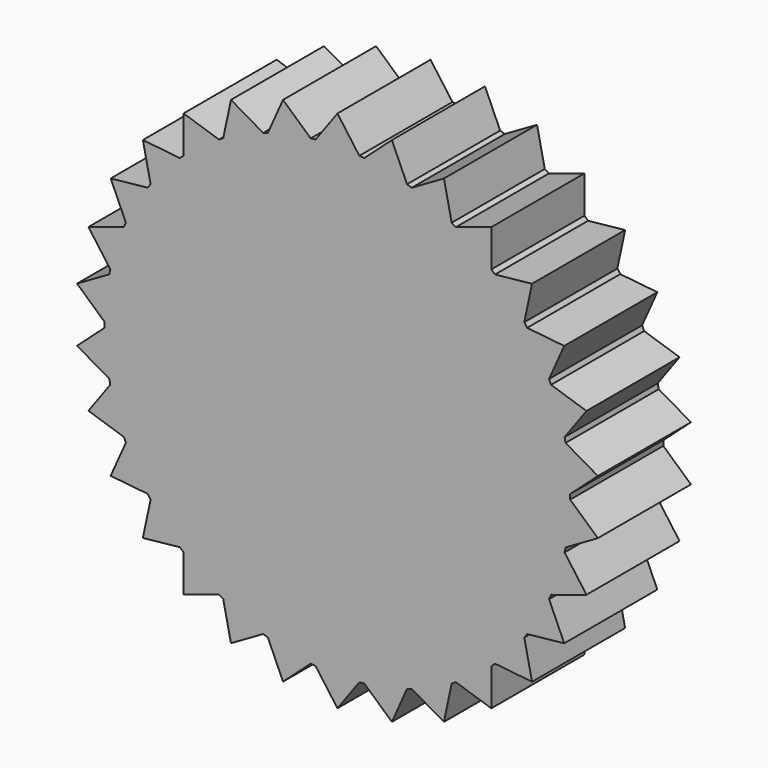
from build123d import *

# Parameters (mm, degrees)
F1_DEPTH = 12.7


with BuildPart() as f1:
    # F0 (on Front) → F1 (new body)
    with BuildSketch(Plane.XZ):
        with BuildLine():
            ThreePointArc((25.398581, -0.268477), (25.399645, -0.134241), (25.4, 0))
            ThreePointArc((25.4, 0), (25.399645, 0.134241), (25.398581, 0.268477))
            ThreePointArc((25.398581, 0.268477), (25.260856, 2.655023), (24.899381, 5.018052))
            ThreePointArc((24.899381, 5.018052), (24.844949, 5.280957), (24.787742, 5.543272))
            ThreePointArc((24.787742, 5.543272), (24.156836, 7.849032), (23.311958, 10.085267))
            ThreePointArc((23.311958, 10.085267), (23.204055, 10.331111), (23.093559, 10.5758))
            ThreePointArc((23.093559, 10.5758), (21.997045, 12.7), (20.705691, 14.711709))
            ThreePointArc((20.705691, 14.711709), (20.549032, 14.929745), (20.390077, 15.146114))
            ThreePointArc((20.390077, 15.146114), (18.875879, 16.995917), (17.194485, 18.695178))
            ThreePointArc((17.194485, 18.695178), (16.995917, 18.875879), (16.79545, 19.05447))
            ThreePointArc((16.79545, 19.05447), (14.929745, 20.549032), (12.931799, 21.861578))
            ThreePointArc((12.931799, 21.861578), (12.7, 21.997045), (12.466782, 22.130055))
            ThreePointArc((12.466782, 22.130055), (10.331111, 23.204055), (8.10393, 24.072522))
            ThreePointArc((8.10393, 24.072522), (7.849032, 24.156836), (7.593256, 24.23845))
            ThreePointArc((7.593256, 24.23845), (5.280957, 24.844949), (2.921881, 25.231381))
            ThreePointArc((2.921881, 25.231381), (2.655023, 25.260856), (2.387868, 25.287508))
            ThreePointArc((2.387868, 25.287508), (1.195258, 25.371862), (0, 25.4))
            ThreePointArc((0, 25.4), (-1.195258, 25.371862), (-2.387868, 25.287508))
            ThreePointArc((-2.387868, 25.287508), (-2.655023, 25.260856), (-2.921881, 25.231381))
            ThreePointArc((-2.921881, 25.231381), (-5.280957, 24.844949), (-7.593256, 24.23845))
            ThreePointArc((-7.593256, 24.23845), (-7.849032, 24.156836), (-8.10393, 24.072522))
            ThreePointArc((-8.10393, 24.072522), (-10.331111, 23.204055), (-12.466782, 22.130055))
            ThreePointArc((-12.466782, 22.130055), (-12.7, 21.997045), (-12.931799, 21.861578))
            ThreePointArc((-12.931799, 21.861578), (-14.929745, 20.549032), (-16.79545, 19.05447))
            ThreePointArc((-16.79545, 19.05447), (-16.995917, 18.875879), (-17.194485, 18.695178))
            ThreePointArc((-17.194485, 18.695178), (-18.875879, 16.995917), (-20.390077, 15.146114))
            ThreePointArc((-20.390077, 15.146114), (-20.549032, 14.929745), (-20.705691, 14.711709))
            ThreePointArc((-20.705691, 14.711709), (-21.997045, 12.7), (-23.093559, 10.5758))
            ThreePointArc((-23.093559, 10.5758), (-23.204055, 10.331111), (-23.311958, 10.085267))
            ThreePointArc((-23.311958, 10.085267), (-24.156836, 7.849032), (-24.787742, 5.543272))
            ThreePointArc((-24.787742, 5.543272), (-24.844949, 5.280957), (-24.899381, 5.018052))
            ThreePointArc((-24.899381, 5.018052), (-25.260856, 2.655023), (-25.398581, 0.268477))
            ThreePointArc((-25.398581, 0.268477), (-25.4, 0), (-25.398581, -0.268477))
            ThreePointArc((-25.398581, -0.268477), (-25.260856, -2.655023), (-24.899381, -5.018052))
            ThreePointArc((-24.899381, -5.018052), (-24.844949, -5.280957), (-24.787742, -5.543272))
            ThreePointArc((-24.787742, -5.543272), (-24.156836, -7.849032), (-23.311958, -10.085267))
            ThreePointArc((-23.311958, -10.085267), (-23.204055, -10.331111), (-23.093559, -10.5758))
            ThreePointArc((-23.093559, -10.5758), (-21.997045, -12.7), (-20.705691, -14.711709))
            ThreePointArc((-20.705691, -14.711709), (-20.549032, -14.929745), (-20.390077, -15.146114))
            ThreePointArc((-20.390077, -15.146114), (-18.875879, -16.995917), (-17.194485, -18.695178))
            ThreePointArc((-17.194485, -18.695178), (-16.995917, -18.875879), (-16.79545, -19.05447))
            ThreePointArc((-16.79545, -19.05447), (-14.929745, -20.549032), (-12.931799, -21.861578))
            ThreePointArc((-12.931799, -21.861578), (-12.7, -21.997045), (-12.466782, -22.130055))
            ThreePointArc((-12.466782, -22.130055), (-10.331111, -23.204055), (-8.10393, -24.072522))
            ThreePointArc((-8.10393, -24.072522), (-7.849032, -24.156836), (-7.593256, -24.23845))
            ThreePointArc((-7.593256, -24.23845), (-5.280957, -24.844949), (-2.921881, -25.231381))
            ThreePointArc((-2.921881, -25.231381), (-2.655023, -25.260856), (-2.387868, -25.287508))
            ThreePointArc((-2.387868, -25.287508), (0, -25.4), (2.387868, -25.287508))
            ThreePointArc((2.387868, -25.287508), (2.655023, -25.260856), (2.921881, -25.231381))
            ThreePointArc((2.921881, -25.231381), (5.280957, -24.844949), (7.593256, -24.23845))
            ThreePointArc((7.593256, -24.23845), (7.849032, -24.156836), (8.10393, -24.072522))
            ThreePointArc((8.10393, -24.072522), (10.331111, -23.204055), (12.466782, -22.130055))
            ThreePointArc((12.466782, -22.130055), (12.7, -21.997045), (12.931799, -21.861578))
            ThreePointArc((12.931799, -21.861578), (14.929745, -20.549032), (16.79545, -19.05447))
            ThreePointArc((16.79545, -19.05447), (16.995917, -18.875879), (17.194485, -18.695178))
            ThreePointArc((17.194485, -18.695178), (18.875879, -16.995917), (20.390077, -15.146114))
            ThreePointArc((20.390077, -15.146114), (20.549032, -14.929745), (20.705691, -14.711709))
            ThreePointArc((20.705691, -14.711709), (21.997045, -12.7), (23.093559, -10.5758))
            ThreePointArc((23.093559, -10.5758), (23.204055, -10.331111), (23.311958, -10.085267))
            ThreePointArc((23.311958, -10.085267), (24.156836, -7.849032), (24.787742, -5.543272))
            ThreePointArc((24.787742, -5.543272), (24.844949, -5.280957), (24.899381, -5.018052))
            ThreePointArc((24.899381, -5.018052), (25.260856, -2.655023), (25.398581, -0.268477))
        make_face()
        with BuildLine():
            ThreePointArc((17.194485, 18.695178), (18.875879, 16.995917), (20.390077, 15.146114))
            Line((20.390077, 15.146114), (21.235363, 19.120407))
            Line((21.235363, 19.120407), (17.194485, 18.695178))
        make_face()
        with BuildLine():
            ThreePointArc((12.931799, 21.861578), (14.929745, 20.549032), (16.79545, 19.05447))
            Line((16.79545, 19.05447), (16.795964, 23.117661))
            Line((16.795964, 23.117661), (12.931799, 21.861578))
        make_face()
        with BuildLine():
            ThreePointArc((8.10393, 24.072522), (10.331111, 23.204055), (12.466782, 22.130055))
            Line((12.466782, 22.130055), (11.6225, 26.104561))
            Line((11.6225, 26.104561), (8.10393, 24.072522))
        make_face()
        with BuildLine():
            ThreePointArc((2.921881, 25.231381), (5.280957, 24.844949), (7.593256, 24.23845))
            Line((7.593256, 24.23845), (5.941077, 27.950568))
            Line((5.941077, 27.950568), (2.921881, 25.231381))
        make_face()
        with BuildLine():
            ThreePointArc((0, 25.4), (1.195258, 25.371862), (2.387868, 25.287508))
            Line((2.387868, 25.287508), (0, 28.575))
            Line((0, 28.575), (0, 25.4))
        make_face()
        with BuildLine():
            ThreePointArc((20.705691, 14.711709), (21.997045, 12.7), (23.093559, 10.5758))
            Line((23.093559, 10.5758), (24.746676, 14.2875))
            Line((24.746676, 14.2875), (20.705691, 14.711709))
        make_face()
        with BuildLine():
            ThreePointArc((23.311958, 10.085267), (24.156836, 7.849032), (24.787742, 5.543272))
            Line((24.787742, 5.543272), (27.17644, 8.830161))
            Line((27.17644, 8.830161), (23.311958, 10.085267))
        make_face()
        with BuildLine():
            ThreePointArc((24.899381, 5.018052), (25.260856, 2.655023), (25.398581, 0.268477))
            Line((25.398581, 0.268477), (28.418463, 2.986901))
            Line((28.418463, 2.986901), (24.899381, 5.018052))
        make_face()
        with BuildLine():
            Line((28.418463, -2.986901), (25.398581, -0.268477))
            ThreePointArc((25.398581, -0.268477), (25.260856, -2.655023), (24.899381, -5.018052))
            Line((24.899381, -5.018052), (28.418463, -2.986901))
        make_face()
        with BuildLine():
            Line((27.17644, -8.830161), (24.787742, -5.543272))
            ThreePointArc((24.787742, -5.543272), (24.156836, -7.849032), (23.311958, -10.085267))
            Line((23.311958, -10.085267), (27.17644, -8.830161))
        make_face()
        with BuildLine():
            Line((24.746676, -14.2875), (23.093559, -10.5758))
            ThreePointArc((23.093559, -10.5758), (21.997045, -12.7), (20.705691, -14.711709))
            Line((20.705691, -14.711709), (24.746676, -14.2875))
        make_face()
        with BuildLine():
            Line((21.235363, -19.120407), (20.390077, -15.146114))
            ThreePointArc((20.390077, -15.146114), (18.875879, -16.995917), (17.194485, -18.695178))
            Line((17.194485, -18.695178), (21.235363, -19.120407))
        make_face()
        with BuildLine():
            Line((16.795964, -23.117661), (16.79545, -19.05447))
            ThreePointArc((16.79545, -19.05447), (14.929745, -20.549032), (12.931799, -21.861578))
            Line((12.931799, -21.861578), (16.795964, -23.117661))
        make_face()
        with BuildLine():
            Line((11.6225, -26.104561), (12.466782, -22.130055))
            ThreePointArc((12.466782, -22.130055), (10.331111, -23.204055), (8.10393, -24.072522))
            Line((8.10393, -24.072522), (11.6225, -26.104561))
        make_face()
        with BuildLine():
            Line((5.941077, -27.950568), (7.593256, -24.23845))
            ThreePointArc((7.593256, -24.23845), (5.280957, -24.844949), (2.921881, -25.231381))
            Line((2.921881, -25.231381), (5.941077, -27.950568))
        make_face()
        with BuildLine():
            Line((0, -28.575), (2.387868, -25.287508))
            ThreePointArc((2.387868, -25.287508), (0, -25.4), (-2.387868, -25.287508))
            Line((-2.387868, -25.287508), (0, -28.575))
        make_face()
        with BuildLine():
            Line((-5.941077, -27.950568), (-2.921881, -25.231381))
            ThreePointArc((-2.921881, -25.231381), (-5.280957, -24.844949), (-7.593256, -24.23845))
            Line((-7.593256, -24.23845), (-5.941077, -27.950568))
        make_face()
        with BuildLine():
            Line((-11.6225, -26.104561), (-8.10393, -24.072522))
            ThreePointArc((-8.10393, -24.072522), (-10.331111, -23.204055), (-12.466782, -22.130055))
            Line((-12.466782, -22.130055), (-11.6225, -26.104561))
        make_face()
        with BuildLine():
            Line((-24.746676, -14.2875), (-20.705691, -14.711709))
            ThreePointArc((-20.705691, -14.711709), (-21.997045, -12.7), (-23.093559, -10.5758))
            Line((-23.093559, -10.5758), (-24.746676, -14.2875))
        make_face()
        with BuildLine():
            Line((-27.17644, -8.830161), (-23.311958, -10.085267))
            ThreePointArc((-23.311958, -10.085267), (-24.156836, -7.849032), (-24.787742, -5.543272))
            Line((-24.787742, -5.543272), (-27.17644, -8.830161))
        make_face()
        with BuildLine():
            Line((-28.418463, -2.986901), (-24.899381, -5.018052))
            ThreePointArc((-24.899381, -5.018052), (-25.260856, -2.655023), (-25.398581, -0.268477))
            Line((-25.398581, -0.268477), (-28.418463, -2.986901))
        make_face()
        with BuildLine():
            ThreePointArc((-25.398581, 0.268477), (-25.260856, 2.655023), (-24.899381, 5.018052))
            Line((-24.899381, 5.018052), (-28.418463, 2.986901))
            Line((-28.418463, 2.986901), (-25.398581, 0.268477))
        make_face()
        with BuildLine():
            ThreePointArc((-24.787742, 5.543272), (-24.156836, 7.849032), (-23.311958, 10.085267))
            Line((-23.311958, 10.085267), (-27.17644, 8.830161))
            Line((-27.17644, 8.830161), (-24.787742, 5.543272))
        make_face()
        with BuildLine():
            ThreePointArc((-23.093559, 10.5758), (-21.997045, 12.7), (-20.705691, 14.711709))
            Line((-20.705691, 14.711709), (-24.746676, 14.2875))
            Line((-24.746676, 14.2875), (-23.093559, 10.5758))
        make_face()
        with BuildLine():
            ThreePointArc((-20.390077, 15.146114), (-18.875879, 16.995917), (-17.194485, 18.695178))
            Line((-17.194485, 18.695178), (-21.235363, 19.120407))
            Line((-21.235363, 19.120407), (-20.390077, 15.146114))
        make_face()
        with BuildLine():
            ThreePointArc((-16.79545, 19.05447), (-14.929745, 20.549032), (-12.931799, 21.861578))
            Line((-12.931799, 21.861578), (-16.795964, 23.117661))
            Line((-16.795964, 23.117661), (-16.79545, 19.05447))
        make_face()
        with BuildLine():
            ThreePointArc((-12.466782, 22.130055), (-10.331111, 23.204055), (-8.10393, 24.072522))
            Line((-8.10393, 24.072522), (-11.6225, 26.104561))
            Line((-11.6225, 26.104561), (-12.466782, 22.130055))
        make_face()
        with BuildLine():
            ThreePointArc((-7.593256, 24.23845), (-5.280957, 24.844949), (-2.921881, 25.231381))
            Line((-2.921881, 25.231381), (-5.941077, 27.950568))
            Line((-5.941077, 27.950568), (-7.593256, 24.23845))
        make_face()
        with BuildLine():
            ThreePointArc((-2.387868, 25.287508), (-1.195258, 25.371862), (0, 25.4))
            Line((0, 25.4), (0, 28.575))
            Line((0, 28.575), (-2.387868, 25.287508))
        make_face()
        with BuildLine():
            Line((-16.795964, -23.117661), (-12.931799, -21.861578))
            ThreePointArc((-12.931799, -21.861578), (-14.929745, -20.549032), (-16.79545, -19.05447))
            Line((-16.79545, -19.05447), (-16.795964, -23.117661))
        make_face()
        with BuildLine():
            Line((-21.235363, -19.120407), (-17.194485, -18.695178))
            ThreePointArc((-17.194485, -18.695178), (-18.875879, -16.995917), (-20.390077, -15.146114))
            Line((-20.390077, -15.146114), (-21.235363, -19.120407))
        make_face()
    extrude(amount=F1_DEPTH)


solid = f1.part
